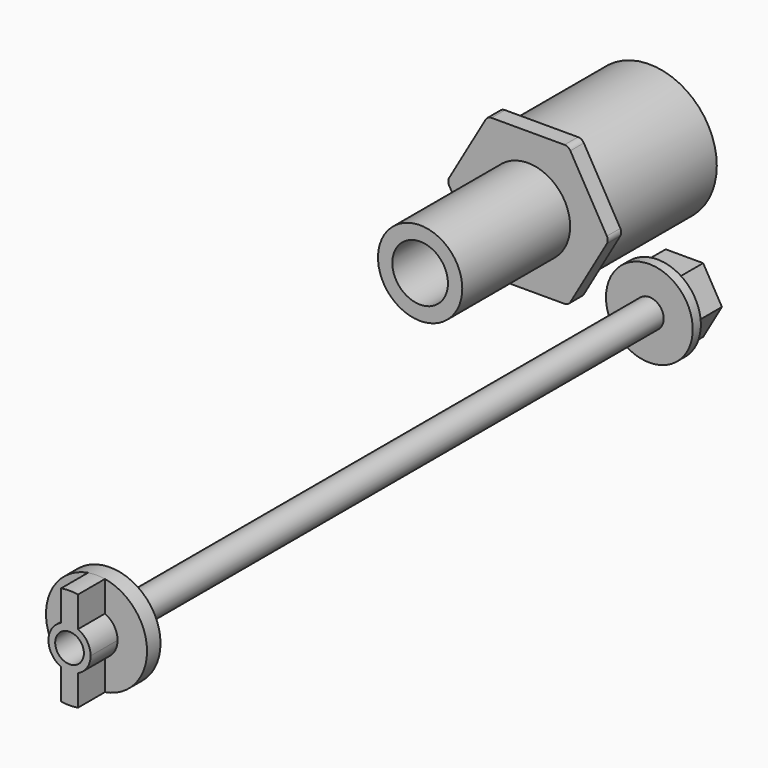
from build123d import *

# Parameters (mm, degrees)
F0_R      = 4.25
F0_R_2    = 2.5
F1_DEPTH  = 200
F2_R      = 14.987167
F2_R_2    = 4.25
F3_DEPTH  = 5
F4_R      = 4.25
F5_DEPTH  = 10
F6_R      = 20
F6_R_2    = 17.5
F7_DEPTH  = 40
F8_R      = 8.250091
F9_DEPTH  = 5
F10_R     = 12.5
F10_R_2   = 8.250091
F11_DEPTH = 40
F12_R     = 12.872863
F12_R_2   = 4.25
F13_DEPTH = 3
F14_R     = 4.25
F15_DEPTH = 10


with BuildPart() as f1:
    # F0 (on Front) → F1 (new body)
    with BuildSketch(Plane.XZ):
        Circle(F0_R)
        Circle(F0_R_2, mode=Mode.SUBTRACT)
    extrude(amount=F1_DEPTH)


with BuildPart() as f3:
    # F2 (on face) → F3 (new body)
    with BuildSketch(Plane.XZ.offset(200)):
        Circle(F2_R)
        Circle(F2_R_2, mode=Mode.SUBTRACT)
    extrude(amount=F3_DEPTH)

    # F4 (on face) → F5 (join)
    with BuildSketch(Plane.XZ.offset(205)):
        with BuildLine():
            Line((2.5, 5.72822), (2.5, 14.777184))
            ThreePointArc((2.5, 14.777184), (0, 14.987167), (-2.5, 14.777184))
            Line((-2.5, 14.777184), (-2.5, 5.72822))
            ThreePointArc((-2.5, 5.72822), (0, 6.25), (2.5, 5.72822))
        make_face()
        with BuildLine():
            ThreePointArc((-2.5, -14.777184), (0, -14.987167), (2.5, -14.777184))
            Line((2.5, -14.777184), (2.5, -5.72822))
            ThreePointArc((2.5, -5.72822), (0, -6.25), (-2.5, -5.72822))
            Line((-2.5, -5.72822), (-2.5, -14.777184))
        make_face()
        with BuildLine():
            ThreePointArc((6.25, 0), (5.229125, 3.423266), (2.5, 5.72822))
            ThreePointArc((2.5, 5.72822), (0, 6.25), (-2.5, 5.72822))
            ThreePointArc((-2.5, 5.72822), (-6.25, 0), (-2.5, -5.72822))
            ThreePointArc((-2.5, -5.72822), (0, -6.25), (2.5, -5.72822))
            ThreePointArc((2.5, -5.72822), (5.229125, -3.423266), (6.25, 0))
        make_face()
        Circle(F4_R, mode=Mode.SUBTRACT)
    extrude(amount=F5_DEPTH)


with BuildPart() as f7:
    # F6 (on Front) → F7 (new body)
    with BuildSketch(Plane.XZ):
        with Locations((0, 45.065034)):
            Circle(F6_R)
        with Locations((0, 45.065034)):
            Circle(F6_R_2, mode=Mode.SUBTRACT)
    extrude(amount=F7_DEPTH)

    # F8 (on face) → F9 (join)
    with BuildSketch(Plane.XZ.offset(40)):
        with BuildLine():
            Line((10.829489, 65.822259), (-10.829489, 65.822259))
            ThreePointArc((-10.829489, 65.822259), (-11.829489, 65.554309), (-12.561539, 64.822259))
            Line((-12.561539, 64.822259), (-23.391028, 46.065034))
            ThreePointArc((-23.391028, 46.065034), (-23.658977, 45.065034), (-23.391028, 44.065034))
            Line((-23.391028, 44.065034), (-12.561539, 25.30781))
            ThreePointArc((-12.561539, 25.30781), (-11.829489, 24.575759), (-10.829489, 24.30781))
            Line((-10.829489, 24.30781), (10.829489, 24.30781))
            ThreePointArc((10.829489, 24.30781), (11.829489, 24.575759), (12.561539, 25.30781))
            Line((12.561539, 25.30781), (23.391028, 44.065034))
            ThreePointArc((23.391028, 44.065034), (23.658977, 45.065034), (23.391028, 46.065034))
            Line((23.391028, 46.065034), (12.561539, 64.822259))
            ThreePointArc((12.561539, 64.822259), (11.829489, 65.554309), (10.829489, 65.822259))
        make_face()
        with Locations((0, 45.065034)):
            Circle(F8_R, mode=Mode.SUBTRACT)
    extrude(amount=F9_DEPTH)

    # F10 (on face) → F11 (join)
    with BuildSketch(Plane.XZ.offset(45)):
        with Locations((0, 45.065034)):
            Circle(F10_R)
        with Locations((0, 45.065034)):
            Circle(F10_R_2, mode=Mode.SUBTRACT)
    extrude(amount=F11_DEPTH)


with BuildPart() as f13:
    # F12 (on face) → F13 (new body)
    with BuildSketch(Plane(origin=(0, 0, 0), x_dir=(-1, 0, 0), z_dir=(0, 1, 0))):
        Circle(F12_R)
        Circle(F12_R_2, mode=Mode.SUBTRACT)
    extrude(amount=F13_DEPTH)


with BuildPart() as f15:
    # F14 (on face) → F15 (new body)
    with BuildSketch(Plane(origin=(0, 3, 0), x_dir=(-1, 0, 0), z_dir=(0, 1, 0))):
        Polygon((5.562042, 9.633739), (-5.562042, 9.633739), (-11.124084, 0), (-5.562042, -9.633739), (5.562042, -9.633739), (11.124084, 0), align=None)
        Circle(F14_R, mode=Mode.SUBTRACT)
    extrude(amount=F15_DEPTH)


solid = Compound([f1.part, f3.part, f7.part, f13.part, f15.part])
